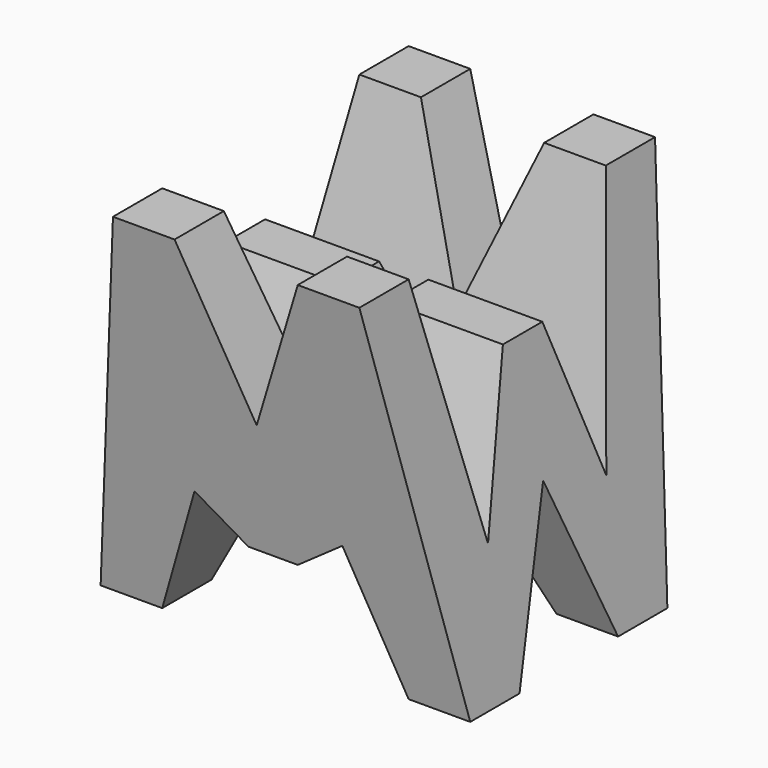
from build123d import *

# Parameters (mm, degrees)
F0_W     = 38.1
F0_H     = 38.1
F1_DEPTH = 38.1
F5_DEPTH = 38.1
F7_DEPTH = 38.1


with BuildPart() as f1:
    # F0 (on Front) → F1 (new body)
    with BuildSketch(Plane.XZ):
        with Locations((19.05, 19.05)):
            Rectangle(F0_W, F0_H)
    extrude(amount=F1_DEPTH)

    # F4 (on offset) → F5 (cut)
    with BuildSketch(Plane.YZ.offset(38.1)):
        Polygon((-6.35, 38.1), (-31.75, 38.1), (-26.67, 13.394677), (-21.59, 28.575), (-16.51, 28.575), (-11.43, 13.394677), align=None)
        Polygon((-19.05, 15.875), (-25.4, 0), (-12.7, 0), align=None)
        Polygon((-31.75, 0), (-38.1, 38.1), (-38.1, 0), align=None)
        Polygon((0, 0), (0, 38.1), (-6.35, 0), align=None)
    extrude(amount=-F5_DEPTH, mode=Mode.SUBTRACT)

    # F6 (on offset) → F7 (cut)
    with BuildSketch(Plane.XZ.offset(38.1)):
        Polygon((11.43, 13.156833), (6.35, 0), (31.75, 0), (26.67, 13.156833), (21.59, 9.525), (16.51, 9.525), align=None)
        Polygon((25.4, 38.1), (12.7, 38.1), (19.05, 22.225), align=None)
        Polygon((0, 38.1), (0, 0), (6.35, 38.1), align=None)
        Polygon((31.75, 38.1), (38.1, 0), (38.1, 38.1), align=None)
    extrude(amount=-F7_DEPTH, mode=Mode.SUBTRACT)


solid = f1.part
